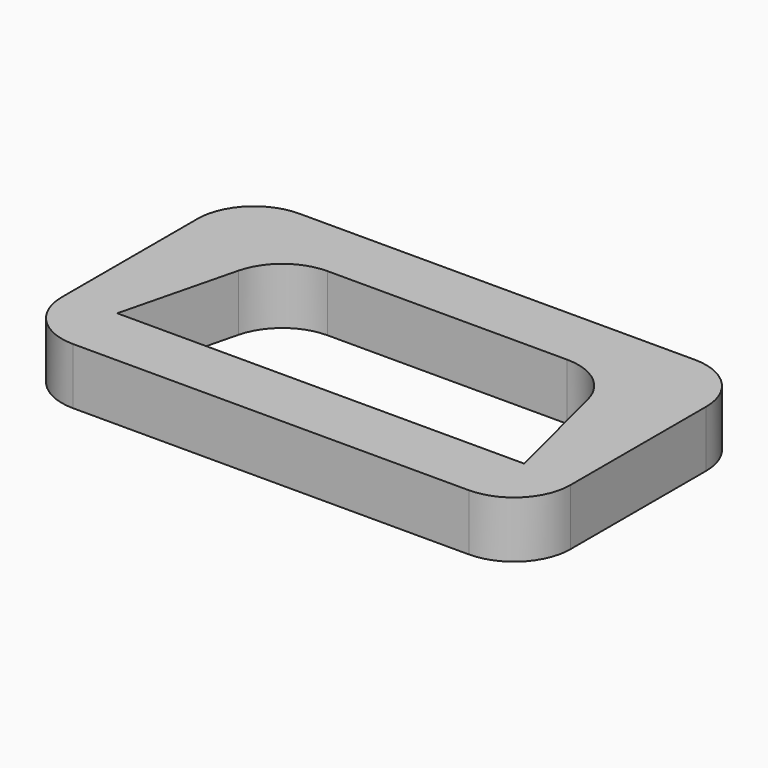
from build123d import *

# Parameters (mm, degrees)
F0_W     = 45
F0_H     = 25
F1_DEPTH = 5
F2_R     = 5


with BuildPart() as f1:
    # F0 (on Top) → F1 (new body)
    with BuildSketch(Plane.XY):
        with Locations((0, 7)):
            Rectangle(F0_W, F0_H)
        Polygon((18, 0), (-18, 0), (-14.5, 14), (14.5, 14), align=None, mode=Mode.SUBTRACT)
    extrude(amount=F1_DEPTH)

    # F2
    f2_edges = [f1.edges().sort_by_distance(p)[0] for p in [
        (-22.5, 19.5, 2.5),
        (22.5, 19.5, 2.5),
        (-22.5, -5.5, 2.5),
        (22.5, -5.5, 2.5),
        (-14.5, 14, 2.5),
        (14.5, 14, 2.5),
    ]]
    fillet(f2_edges, radius=F2_R)


solid = f1.part
